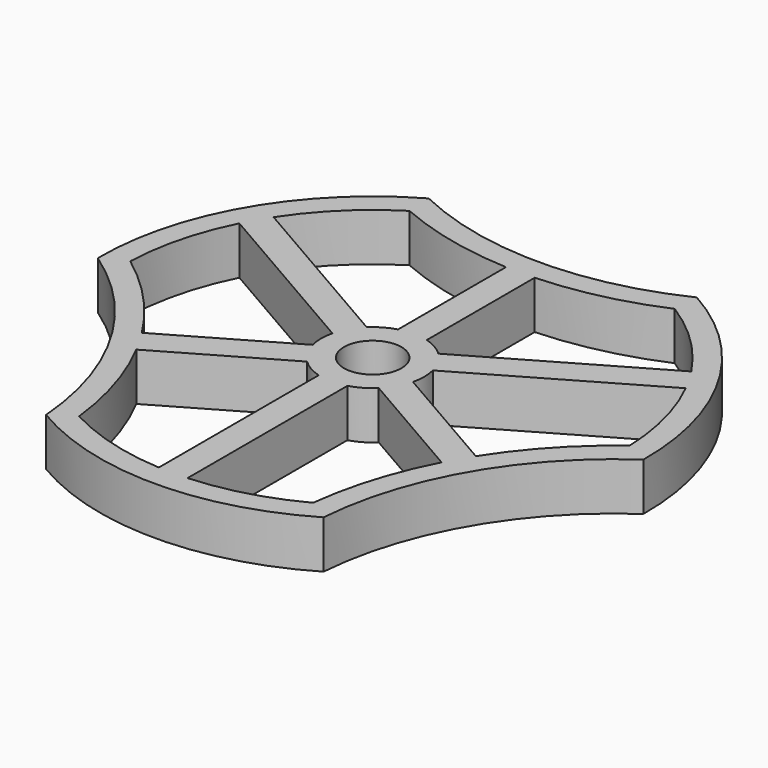
from build123d import *

# Parameters (mm, degrees)
F1_DEPTH = 6.35


with BuildPart() as f1:
    # F0 (on Top) → F1 (new body)
    with BuildSketch(Plane.XY):
        with BuildLine():
            ThreePointArc((17.789634, 31.521532), (0, 27.491055), (-17.789634, 31.521532))
            ThreePointArc((-17.789634, 31.521532), (-31.345789, 18.0975), (-36.193264, -0.354491))
            ThreePointArc((-36.193264, -0.354491), (-23.807952, -13.745528), (-18.40363, -31.167041))
            ThreePointArc((-18.40363, -31.167041), (0, -36.195), (18.40363, -31.167041))
            ThreePointArc((18.40363, -31.167041), (23.807952, -13.745528), (36.193264, -0.354491))
            ThreePointArc((36.193264, -0.354491), (31.345789, 18.0975), (17.789634, 31.521532))
        make_face()
        with BuildLine():
            ThreePointArc((-1.904548, -33.092239), (-8.919605, -31.924352), (-15.524087, -29.286965))
            ThreePointArc((-15.524087, -29.286965), (-17.182659, -21.372657), (-20.251486, -13.891384))
            Line((-20.251486, -13.891384), (-4.753306, -4.943505))
            ThreePointArc((-4.753306, -4.943505), (-3.429, -5.939202), (-1.904548, -6.588237))
            Line((-1.904548, -6.588237), (-1.904548, -33.092239))
        make_face(mode=Mode.SUBTRACT)
        with BuildLine():
            ThreePointArc((15.524087, -29.286965), (8.920041, -31.92423), (1.905452, -33.092187))
            Line((1.905452, -33.092187), (1.905452, -6.587975))
            ThreePointArc((1.905452, -6.587975), (3.429, -5.939202), (4.752628, -4.944157))
            Line((4.752628, -4.944157), (20.251068, -13.892186))
            ThreePointArc((20.251068, -13.892186), (17.182526, -21.373089), (15.524087, -29.286965))
        make_face(mode=Mode.SUBTRACT)
        with BuildLine():
            Line((-29.611197, 14.896328), (-6.657967, 1.644275))
            ThreePointArc((-6.657967, 1.644275), (-6.858, 0.000235), (-6.65808, -1.643818))
            Line((-6.65808, -1.643818), (-22.15652, -10.591846))
            ThreePointArc((-22.15652, -10.591846), (-27.100901, -4.19396), (-33.125299, 1.199229))
            ThreePointArc((-33.125299, 1.199229), (-32.107159, 8.237352), (-29.611197, 14.896328))
        make_face(mode=Mode.SUBTRACT)
        with BuildLine():
            Line((-4.752967, 4.943831), (-27.706197, 18.195885))
            ThreePointArc((-27.706197, 18.195885), (-23.187335, 23.686939), (-17.601212, 28.087736))
            ThreePointArc((-17.601212, 28.087736), (-9.917934, 25.566948), (-1.904548, 24.483993))
            Line((-1.904548, 24.483993), (-1.904548, 6.588237))
            ThreePointArc((-1.904548, 6.588237), (-3.428796, 5.93932), (-4.752967, 4.943831))
        make_face(mode=Mode.SUBTRACT)
        with BuildLine():
            ThreePointArc((-3.81, 0), (0, 3.81), (3.81, 0))
            ThreePointArc((3.81, 0), (0, -3.81), (-3.81, 0))
        make_face(mode=Mode.SUBTRACT)
        with BuildLine():
            ThreePointArc((29.610627, 14.897462), (32.107001, 8.237967), (33.125299, 1.199229))
            ThreePointArc((33.125299, 1.199229), (27.100593, -4.194291), (22.156034, -10.59261))
            Line((22.156034, -10.59261), (6.657854, -1.644731))
            ThreePointArc((6.657854, -1.644731), (6.858, 0.000424), (6.657651, 1.645555))
            Line((6.657651, 1.645555), (29.610627, 14.897462))
        make_face(mode=Mode.SUBTRACT)
        with BuildLine():
            ThreePointArc((17.601212, 28.087736), (23.186882, 23.687383), (27.705501, 18.196946))
            Line((27.705501, 18.196946), (4.752016, 4.944745))
            ThreePointArc((4.752016, 4.944745), (3.428632, 5.939414), (1.905452, 6.587975))
            Line((1.905452, 6.587975), (1.905452, 24.484032))
            ThreePointArc((1.905452, 24.484032), (9.918375, 25.567049), (17.601212, 28.087736))
        make_face(mode=Mode.SUBTRACT)
    extrude(amount=F1_DEPTH)


solid = f1.part
